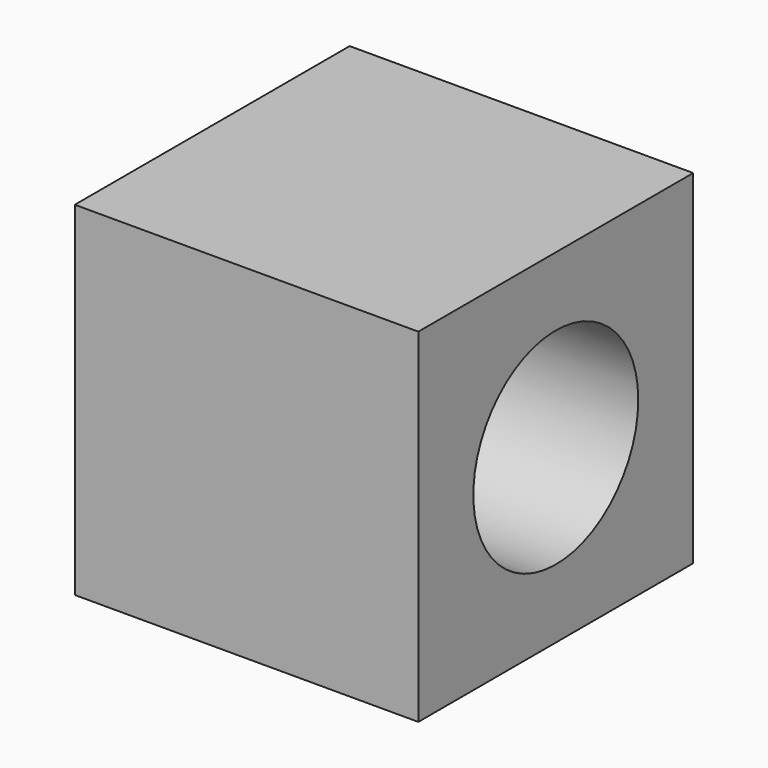
from build123d import *

# Parameters (mm, degrees)
F0_W     = 127
F0_H     = 127
F1_DEPTH = 127
F2_R     = 38.1
F3_DEPTH = 127.001


with BuildPart() as f1:
    # F0 (on Front) → F1 (new body)
    with BuildSketch(Plane.XZ):
        with Locations((20.456394, -26.110025)):
            Rectangle(F0_W, F0_H)
    extrude(amount=-F1_DEPTH)

    # F2 (on face) → F3 (cut, through all)
    with BuildSketch(Plane.YZ.offset(83.956394)):
        with Locations((63.5, -26.110025)):
            Circle(F2_R)
    extrude(amount=-F3_DEPTH, mode=Mode.SUBTRACT)


solid = f1.part
